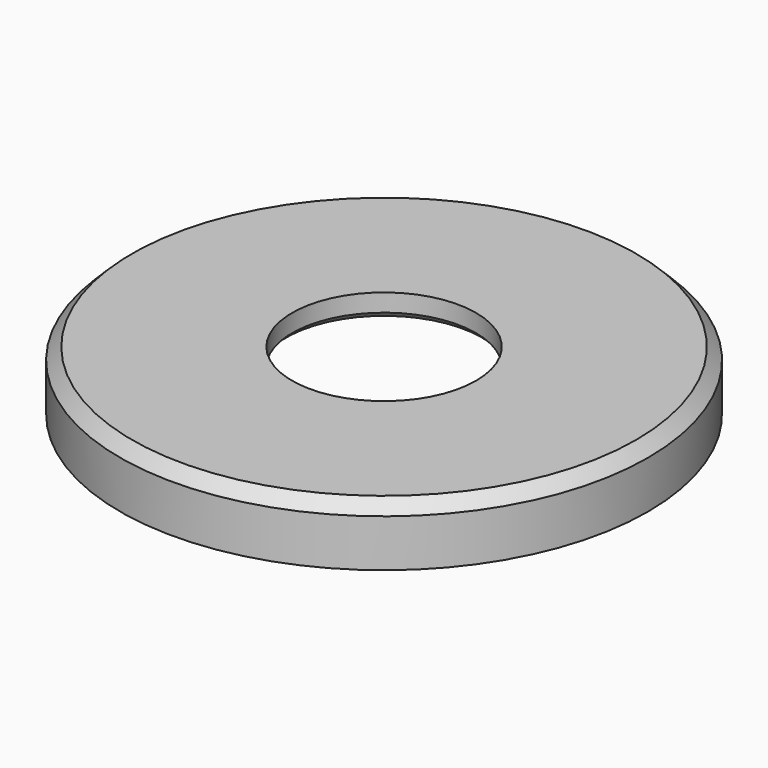
from build123d import *

# Parameters (mm, degrees)
F0_R     = 20.25
F0_R_2   = 7.75
F1_DEPTH = 2
F2_R     = 22.25
F2_R_2   = 20.25
F3_DEPTH = 5
F4_SIZE  = 0.5
F5_SIZE  = 1


with BuildPart() as f1:
    # F0 (on Top) → F1 (new body)
    with BuildSketch(Plane.XY):
        Circle(F0_R)
        Circle(F0_R_2, mode=Mode.SUBTRACT)
    extrude(amount=F1_DEPTH)

    # F2 (on face) → F3 (join)
    with BuildSketch(Plane.XY.offset(2)):
        Circle(F2_R)
        Circle(F2_R_2, mode=Mode.SUBTRACT)
    extrude(amount=-F3_DEPTH)

    # F4
    f4_edges = [f1.edges().sort_by_distance(p)[0] for p in [
        (-7.75, 0, 0),
    ]]
    chamfer(f4_edges, length=F4_SIZE)

    # F5
    f5_edges = [f1.edges().sort_by_distance(p)[0] for p in [
        (-22.25, 0, 2),
    ]]
    chamfer(f5_edges, length=F5_SIZE)


solid = f1.part
